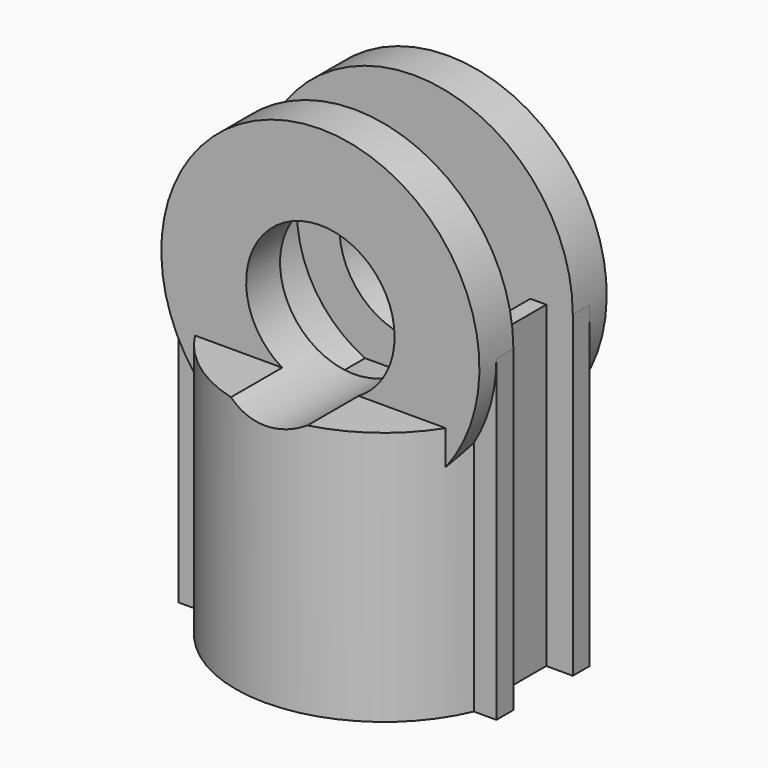
from build123d import *

# Parameters (mm, degrees)
CYLINDER002_R          = 11
CYLINDER002_DEPTH      = 7
CYLINDER002_ROLL_ANGLE = -90
BOX_W                  = 30
BOX_H                  = 7
BOX_DEPTH              = 15
BOX001_W               = 10
BOX001_H               = 7
BOX001_DEPTH           = 30
CYLINDER005_R          = 10.2
CYLINDER005_DEPTH      = 20
CYLINDER004_R          = 7
CYLINDER004_DEPTH      = 30
CYLINDER004_ROLL_ANGLE = -90
CYLINDER001_R          = 15
CYLINDER001_DEPTH      = 15
CYLINDER001_ROLL_ANGLE = -90
BOX002_W               = 30
BOX002_H               = 11
BOX002_DEPTH           = 30
CYLINDER_R             = 14
CYLINDER_DEPTH         = 24


with BuildPart() as cylinder002:
    # Cylinder002 → Cylinder002 (new body)
    with BuildSketch(Plane.XY):
        Circle(CYLINDER002_R)
    extrude(amount=CYLINDER002_DEPTH)


with BuildPart() as cylinder002_1:
    # Cylinder002 roll: moved
    add(cylinder002.part.rotate(Axis((0, 0, 0), (1, 0, 0)), CYLINDER002_ROLL_ANGLE))


with BuildPart() as cylinder002_2:
    # Cylinder002 placement: moved
    add(cylinder002_1.part.moved(Location((0, -3.5, 30))))


with BuildPart() as cube:
    # Box → Box (new body)
    with BuildSketch(Plane(origin=(-15, -3.5, 30), x_dir=(1, 0, 0), z_dir=(0, 0, 1))):
        with Locations((15, 3.5)):
            Rectangle(BOX_W, BOX_H)
    extrude(amount=BOX_DEPTH)


with BuildPart() as cube001:
    # Box001 → Box001 (new body)
    with BuildSketch(Plane(origin=(12.5, -3.5, 0), x_dir=(1, 0, 0), z_dir=(0, 0, 1))):
        with Locations((5, 3.5)):
            Rectangle(BOX001_W, BOX001_H)
    extrude(amount=BOX001_DEPTH)


with BuildPart() as cylinder005:
    # Cylinder005 → Cylinder005 (new body)
    with BuildSketch(Plane.XY):
        Circle(CYLINDER005_R)
    extrude(amount=CYLINDER005_DEPTH)


with BuildPart() as obj1:
    # Cylinder004 → Cylinder004 (new body)
    with BuildSketch(Plane.XY):
        Circle(CYLINDER004_R)
    extrude(amount=CYLINDER004_DEPTH)


with BuildPart() as obj1_1:
    # Cylinder004 roll: moved
    add(obj1.part.rotate(Axis((0, 0, 0), (1, 0, 0)), CYLINDER004_ROLL_ANGLE))


with BuildPart() as obj1_2:
    # Cylinder004 placement: moved
    add(obj1_1.part.moved(Location((0, -15, 30))))

    # Fusion001: union Cylinder002, Cube, Cube001, Cylinder005
    add(cylinder002_2.part)
    add(cube.part)
    add(cube001.part)
    add(cylinder005.part)


with BuildPart() as cylinder001:
    # Cylinder001 → Cylinder001 (new body)
    with BuildSketch(Plane.XY):
        Circle(CYLINDER001_R)
    extrude(amount=CYLINDER001_DEPTH)


with BuildPart() as cylinder001_1:
    # Cylinder001 roll: moved
    add(cylinder001.part.rotate(Axis((0, 0, 0), (1, 0, 0)), CYLINDER001_ROLL_ANGLE))


with BuildPart() as cylinder001_2:
    # Cylinder001 placement: moved
    add(cylinder001_1.part.moved(Location((0, -7.5, 30))))


with BuildPart() as cube002:
    # Box002 → Box002 (new body)
    with BuildSketch(Plane(origin=(-15, -5.5, 0), x_dir=(1, 0, 0), z_dir=(0, 0, 1))):
        with Locations((15, 5.5)):
            Rectangle(BOX002_W, BOX002_H)
    extrude(amount=BOX002_DEPTH)


with BuildPart() as cut:
    # Cylinder → Cylinder (new body)
    with BuildSketch(Plane.XY):
        Circle(CYLINDER_R)
    extrude(amount=CYLINDER_DEPTH)

    # Fusion: union Cylinder001, Cube002
    add(cylinder001_2.part)
    add(cube002.part)

    # Cut: cut obj1
    add(obj1_2.part, mode=Mode.SUBTRACT)


solid = cut.part
